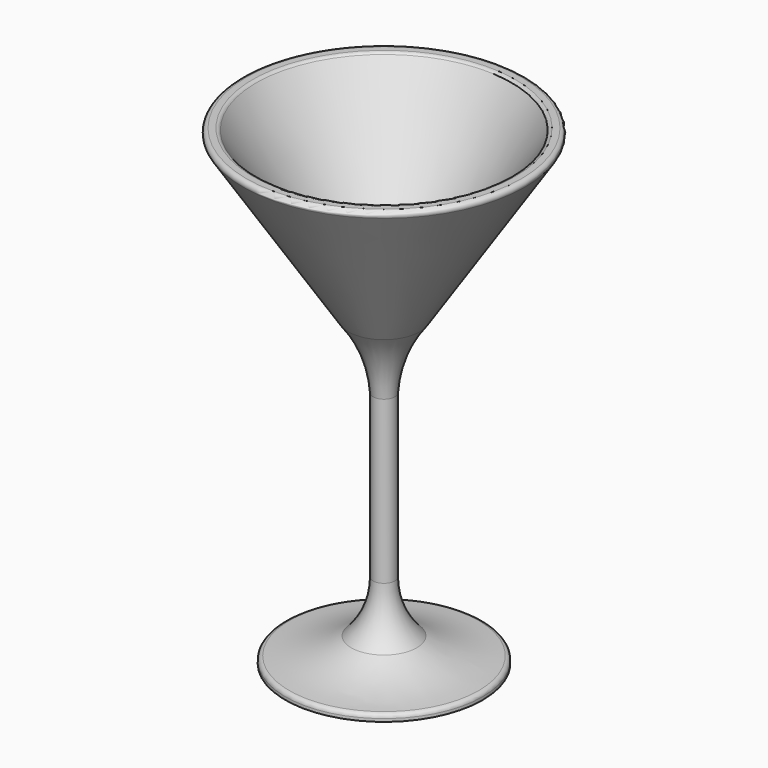
from build123d import *

# Parameters (mm, degrees)
F2_R = 1


with BuildPart() as f1:
    # F0 (on Front) → F1 (revolve)
    with BuildSketch(Plane.XZ):
        with BuildLine():
            Line((8.7613417438, 25.7350374806), (35.5586335666, 66.8978896784))
            Line((35.5586335666, 66.8978896784), (31.6540962436, 66.8978896784))
            Line((31.6540962436, 66.8978896784), (10.5413682759, 34.466996789))
            ThreePointArc((10.5413682759, 34.466996789), (5.6652900366, 30.875206834), (0, 28.7347435951))
            Line((0, 28.7347435951), (0, -48.752117902))
            Line((0, -48.752117902), (24.1944194443, -48.752117902))
            Line((24.1944194443, -48.752117902), (24.1944194443, -47.0513346744))
            ThreePointArc((24.1944194443, -47.0513346744), (15.8406170071, -45.918160564), (8.0388766385, -42.7239555073))
            ThreePointArc((8.0388766385, -42.7239555073), (4.0772199387, -36.9188463564), (2.6836055934, -30.0303156627))
            Line((2.6836055934, -30.0303156627), (2.6836055934, 9.711914775))
            ThreePointArc((2.6836055934, 9.711914775), (4.4881703536, 18.1916601401), (8.7613417438, 25.7350374806))
        make_face()
    revolve(axis=Axis((0, 0, -50.5373999476), (0, 0, -1)))

    # F2
    f2_edges = [f1.edges().sort_by_distance(p)[0] for p in [
        (-35.558634, 0, 66.89789),
        (-31.654096, 0, 66.89789),
        (-24.194419, 0, -47.051335),
    ]]
    fillet(f2_edges, radius=F2_R)


solid = f1.part
